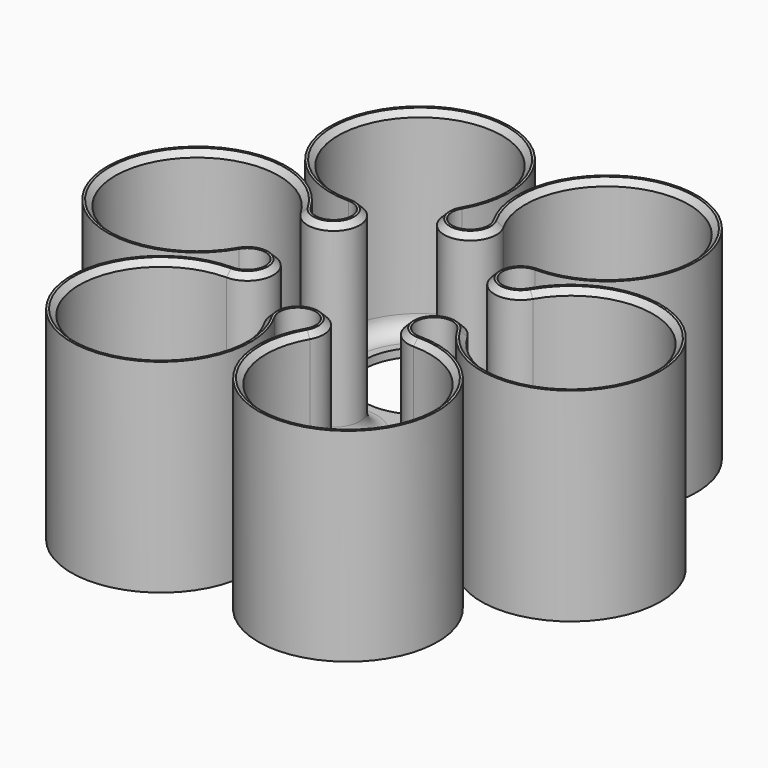
from build123d import *

# Parameters (mm, degrees)
F0_R     = 10
F1_DEPTH = 36
F2_T     = -1.4
F3_DEPTH = 12.5
F5_SIZE  = 1
F6_R     = 3


with BuildPart() as f1:
    # F0 (on Top) → F1 (new body)
    with BuildSketch(Plane.XY):
        with BuildLine():
            ThreePointArc((-16.5625, 12.7870915004), (-13.7698039202, 7.95), (-19.3551960798, 7.95))
            ThreePointArc((-19.3551960798, 7.95), (-49.025, 0), (-19.3551960798, -7.95))
            ThreePointArc((-19.3551960798, -7.95), (-13.7698039202, -7.95), (-16.5625, -12.7870915004))
            ThreePointArc((-16.5625, -12.7870915004), (-24.5125, -42.4568954205), (-2.7926960798, -20.7370915004))
            ThreePointArc((-2.7926960798, -20.7370915004), (0, -15.9), (2.7926960798, -20.7370915004))
            ThreePointArc((2.7926960798, -20.7370915004), (24.5125, -42.4568954205), (16.5625, -12.7870915004))
            ThreePointArc((16.5625, -12.7870915004), (13.7698039202, -7.95), (19.3551960798, -7.95))
            ThreePointArc((19.3551960798, -7.95), (49.025, 0), (19.3551960798, 7.95))
            ThreePointArc((19.3551960798, 7.95), (13.7698039202, 7.95), (16.5625, 12.7870915004))
            ThreePointArc((16.5625, 12.7870915004), (24.5125, 42.4568954205), (2.7926960798, 20.7370915004))
            ThreePointArc((2.7926960798, 20.7370915004), (0, 15.9), (-2.7926960798, 20.7370915004))
            ThreePointArc((-2.7926960798, 20.7370915004), (-24.5125, 42.4568954205), (-16.5625, 12.7870915004))
        make_face()
        with Locations((-16.5625, -28.6870915004)):
            Circle(F0_R, mode=Mode.SUBTRACT)
        with Locations((16.5625, -28.6870915004)):
            Circle(F0_R, mode=Mode.SUBTRACT)
        with Locations((-33.125, 0)):
            Circle(F0_R, mode=Mode.SUBTRACT)
        Circle(F0_R, mode=Mode.SUBTRACT)
        with Locations((-16.5625, 28.6870915004)):
            Circle(F0_R, mode=Mode.SUBTRACT)
        with Locations((33.125, 0)):
            Circle(F0_R, mode=Mode.SUBTRACT)
        with Locations((16.5625, 28.6870915004)):
            Circle(F0_R, mode=Mode.SUBTRACT)
        with Locations((16.5625, 28.6870915004)):
            Circle(F0_R)
        with Locations((33.125, 0)):
            Circle(F0_R)
        with Locations((16.5625, -28.6870915004)):
            Circle(F0_R)
        with Locations((-16.5625, -28.6870915004)):
            Circle(F0_R)
        with Locations((-33.125, 0)):
            Circle(F0_R)
        with Locations((-16.5625, 28.6870915004)):
            Circle(F0_R)
        Circle(F0_R)
    extrude(amount=F1_DEPTH)

    # F2
    f2_openings = [f1.faces().sort_by_distance(p)[0] for p in [
        (0, 0, 36),
    ]]
    offset(amount=F2_T, openings=f2_openings)


with BuildPart() as f3:
    # F0 (on Top) → F3 (new body, symmetric)
    with BuildSketch(Plane.XY):
        with Locations((-33.125, 0)):
            Circle(F0_R)
    extrude(amount=F3_DEPTH, both=True)


with BuildPart() as f3b:
    # F0 (on Top) → F3, piece 2 (new body, symmetric)
    with BuildSketch(Plane.XY):
        with Locations((-16.5625, -28.6870915004)):
            Circle(F0_R)
    extrude(amount=F3_DEPTH, both=True)


with BuildPart() as f3c:
    # F0 (on Top) → F3, piece 3 (new body, symmetric)
    with BuildSketch(Plane.XY):
        with Locations((16.5625, -28.6870915004)):
            Circle(F0_R)
    extrude(amount=F3_DEPTH, both=True)


with BuildPart() as f3d:
    # F0 (on Top) → F3, piece 4 (new body, symmetric)
    with BuildSketch(Plane.XY):
        with Locations((33.125, 0)):
            Circle(F0_R)
    extrude(amount=F3_DEPTH, both=True)


with BuildPart() as f3e:
    # F0 (on Top) → F3, piece 5 (new body, symmetric)
    with BuildSketch(Plane.XY):
        with Locations((16.5625, 28.6870915004)):
            Circle(F0_R)
    extrude(amount=F3_DEPTH, both=True)


with BuildPart() as f3f:
    # F0 (on Top) → F3, piece 6 (new body, symmetric)
    with BuildSketch(Plane.XY):
        with Locations((-16.5625, 28.6870915004)):
            Circle(F0_R)
    extrude(amount=F3_DEPTH, both=True)


with BuildPart() as f3g:
    # F0 (on Top) → F3, piece 7 (new body, symmetric)
    with BuildSketch(Plane.XY):
        Circle(F0_R)
    extrude(amount=F3_DEPTH, both=True)


with BuildPart() as f1_1:
    add(f1.part)

    # F4: cut F3d, F3c, F3g, F3, F3f, F3e, F3b
    add(f3d.part, mode=Mode.SUBTRACT)
    add(f3c.part, mode=Mode.SUBTRACT)
    add(f3g.part, mode=Mode.SUBTRACT)
    add(f3.part, mode=Mode.SUBTRACT)
    add(f3f.part, mode=Mode.SUBTRACT)
    add(f3e.part, mode=Mode.SUBTRACT)
    add(f3b.part, mode=Mode.SUBTRACT)

    # F5
    f5_edges = [f1_1.edges().sort_by_distance(p)[0] for p in [
        (47.625, 0, 36),
    ]]
    chamfer(f5_edges, length=F5_SIZE)

    # F6
    f6_edges = [f1_1.edges().sort_by_distance(p)[0] for p in [
        (47.625, 0, 1.4),
    ]]
    fillet(f6_edges, radius=F6_R)


solid = f1_1.part
